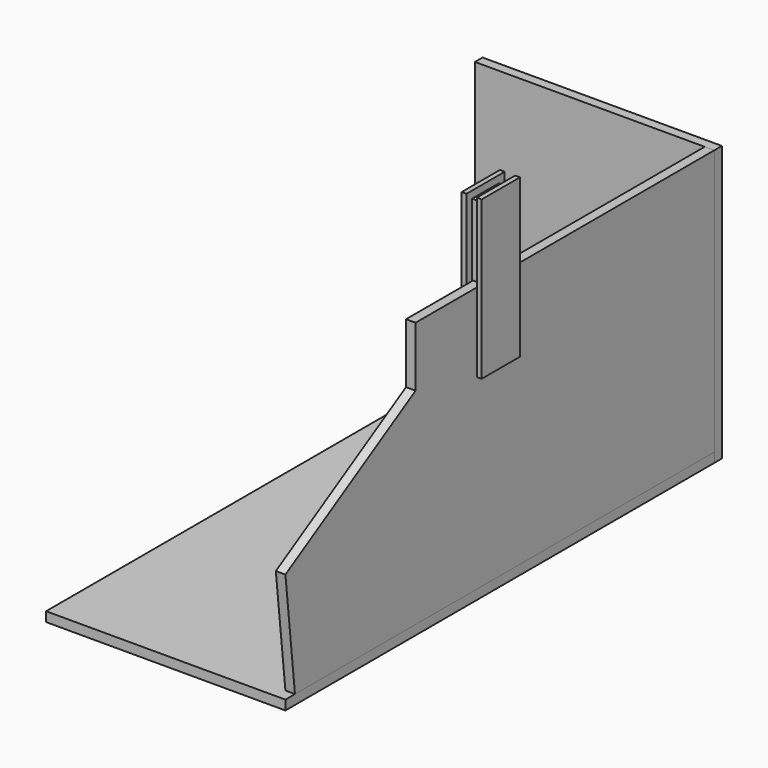
from build123d import *

# Parameters (mm, degrees)
F1_W      = 100
F1_H      = 224
F2_DEPTH  = 4
F4_W      = 100
F4_H      = 115
F5_DEPTH  = 4
F8_DEPTH  = 4
F10_DEPTH = 2
F11_DEPTH = 20
F12_DEPTH = 8.15
F13_DEPTH = 4.45
F16_DEPTH = 2
F17_DEPTH = 0.6


with BuildPart() as f2:
    # F1 (on Top) → F2 (new body)
    with BuildSketch(Plane.XY):
        with Locations((0, 2)):
            Rectangle(F1_W, F1_H)
    extrude(amount=F2_DEPTH)

    # F9 (on offset) → F11 (cut)
    with BuildSketch(Plane.YZ.offset(50)):
        with BuildLine():
            Line((4.3, 115), (-4.3, 115))
            ThreePointArc((-4.3, 115), (0, 110.7), (4.3, 115))
        make_face()
        with BuildLine():
            ThreePointArc((4.3, 115), (0, 119.3), (-4.3, 115))
            Line((-4.3, 115), (4.3, 115))
        make_face()
    extrude(amount=-F11_DEPTH, mode=Mode.SUBTRACT)


with BuildPart() as f5:
    # F4 (on offset) → F5 (new body)
    with BuildSketch(Plane(origin=(0, 118, 0), x_dir=(-1, 0, 0), z_dir=(0, 1, 0))):
        with Locations((0, 57.5)):
            Rectangle(F4_W, F4_H)
    extrude(amount=-F5_DEPTH)


with BuildPart() as f8:
    # F7 (on offset) → F8 (new body)
    with BuildSketch(Plane.YZ.offset(50)):
        Polygon((-110, 50), (-105, 4), (0, 4), (114, 4), (114, 115), (7, 115), (7, 85), (-7, 85), (-7, 115), (-42, 115), (-42, 90), align=None)
    extrude(amount=-F8_DEPTH)


with BuildPart() as f10:
    # F9 (on offset) → F10 (new body)
    with BuildSketch(Plane.YZ.offset(50)):
        Polygon((-7, 85), (-7, 115), (-10, 115), (-10, 82), (10, 82), (10, 115), (7, 115), (7, 85), align=None)
        with BuildLine():
            Line((-5.6, 115), (-7, 115))
            Line((-7, 115), (-7, 85))
            Line((-7, 85), (7, 85))
            Line((7, 85), (7, 115))
            Line((7, 115), (5.6, 115))
            ThreePointArc((5.6, 115), (0, 109.4), (-5.6, 115))
        make_face()
        with BuildLine():
            Line((-4.3, 115), (-5.6, 115))
            ThreePointArc((-5.6, 115), (0, 109.4), (5.6, 115))
            Line((5.6, 115), (4.3, 115))
            ThreePointArc((4.3, 115), (0, 110.7), (-4.3, 115))
        make_face()
        with BuildLine():
            Line((4.3, 115), (-4.3, 115))
            ThreePointArc((-4.3, 115), (0, 110.7), (4.3, 115))
        make_face()
        Polygon((-10, 115), (-7, 115), (-7, 145), (7, 145), (7, 115), (10, 115), (10, 148), (-10, 148), align=None)
        with BuildLine():
            Line((-7, 145), (-7, 115))
            Line((-7, 115), (-5.6, 115))
            ThreePointArc((-5.6, 115), (0, 120.6), (5.6, 115))
            Line((5.6, 115), (7, 115))
            Line((7, 115), (7, 145))
            Line((7, 145), (-7, 145))
        make_face()
        with BuildLine():
            ThreePointArc((5.6, 115), (0, 120.6), (-5.6, 115))
            Line((-5.6, 115), (-4.3, 115))
            ThreePointArc((-4.3, 115), (0, 119.3), (4.3, 115))
            Line((4.3, 115), (5.6, 115))
        make_face()
        with BuildLine():
            ThreePointArc((4.3, 115), (0, 119.3), (-4.3, 115))
            Line((-4.3, 115), (4.3, 115))
        make_face()
    extrude(amount=F10_DEPTH)

    # F9 (on offset) → F12 (join)
    with BuildSketch(Plane.YZ.offset(50)):
        with BuildLine():
            Line((-4.3, 115), (-5.6, 115))
            ThreePointArc((-5.6, 115), (0, 109.4), (5.6, 115))
            Line((5.6, 115), (4.3, 115))
            ThreePointArc((4.3, 115), (0, 110.7), (-4.3, 115))
        make_face()
        with BuildLine():
            ThreePointArc((5.6, 115), (0, 120.6), (-5.6, 115))
            Line((-5.6, 115), (-4.3, 115))
            ThreePointArc((-4.3, 115), (0, 119.3), (4.3, 115))
            Line((4.3, 115), (5.6, 115))
        make_face()
    extrude(amount=-F12_DEPTH)



with BuildPart() as f13:
    # F9 (on offset) → F13 (new body)
    with BuildSketch(Plane.YZ.offset(50)):
        with BuildLine():
            Line((-5.6, 115), (-7, 115))
            Line((-7, 115), (-7, 85))
            Line((-7, 85), (7, 85))
            Line((7, 85), (7, 115))
            Line((7, 115), (5.6, 115))
            ThreePointArc((5.6, 115), (0, 109.4), (-5.6, 115))
        make_face()
        with BuildLine():
            Line((-7, 145), (-7, 115))
            Line((-7, 115), (-5.6, 115))
            ThreePointArc((-5.6, 115), (0, 120.6), (5.6, 115))
            Line((5.6, 115), (7, 115))
            Line((7, 115), (7, 145))
            Line((7, 145), (-7, 145))
        make_face()
    extrude(amount=-F13_DEPTH)


with BuildPart() as f10_1:
    add(f10.part)

    add(f13.part)  # F16 merges F13
    # F15 (on offset) → F16 (join)
    with BuildSketch(Plane(origin=(45.65, 0, 0), x_dir=(0, -1, 0), z_dir=(-1, 0, 0))):
        with BuildLine():
            Line((-10, 115), (-10, 82))
            Line((-10, 82), (10, 82))
            Line((10, 82), (10, 115))
            Line((10, 115), (7, 115))
            Line((7, 115), (5.6, 115))
            ThreePointArc((5.6, 115), (0, 109.4), (-5.6, 115))
            Line((-5.6, 115), (-7, 115))
            Line((-7, 115), (-10, 115))
        make_face()
        Polygon((-10, 148), (-10, 115), (-7, 115), (-7, 145), (7, 145), (7, 115), (10, 115), (10, 148), align=None)
        with BuildLine():
            Line((-7, 145), (-7, 115))
            Line((-7, 115), (-5.6, 115))
            ThreePointArc((-5.6, 115), (0, 120.6), (5.6, 115))
            Line((5.6, 115), (7, 115))
            Line((7, 115), (7, 145))
            Line((7, 145), (-7, 145))
        make_face()
    extrude(amount=F16_DEPTH)

    # F9 (on offset) → F17 (cut)
    with BuildSketch(Plane.YZ.offset(50)):
        with BuildLine():
            Line((4.3, 115), (-4.3, 115))
            ThreePointArc((-4.3, 115), (0, 110.7), (4.3, 115))
        make_face()
        with BuildLine():
            ThreePointArc((4.3, 115), (0, 119.3), (-4.3, 115))
            Line((-4.3, 115), (4.3, 115))
        make_face()
    extrude(amount=F17_DEPTH, mode=Mode.SUBTRACT)


solid = Compound([f2.part, f5.part, f8.part, f10_1.part])
